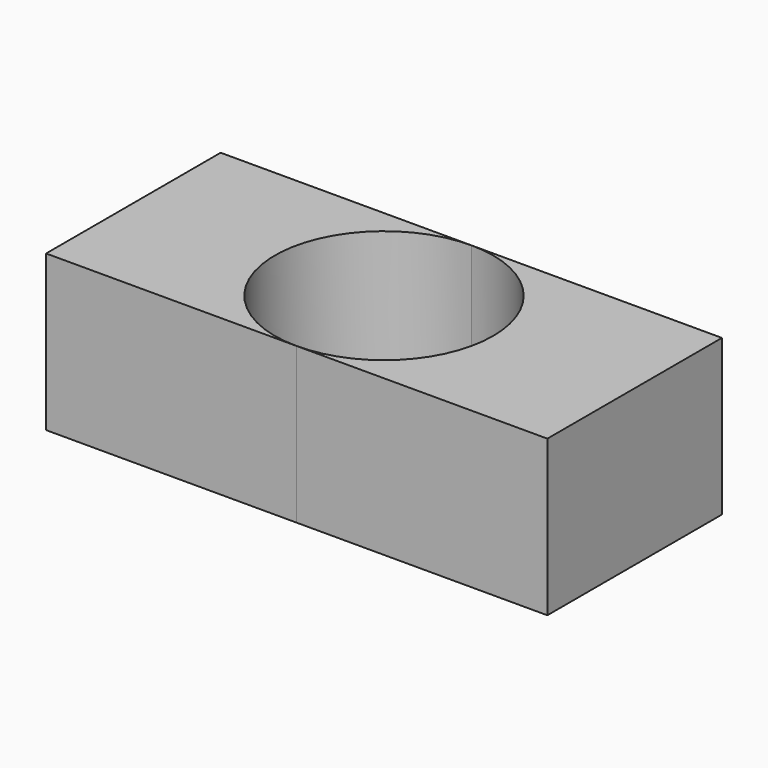
from build123d import *

# Parameters (mm, degrees)
F1_DEPTH = 25.4


with BuildPart() as f1:
    # F0 (on Top) → F1 (new body)
    with BuildSketch(Plane.XY):
        with BuildLine():
            Line((0, -17.819185), (40.937737, -17.819185))
            Line((40.937737, -17.819185), (40.937737, 17.819185))
            Line((40.937737, 17.819185), (0, 17.819185))
            ThreePointArc((0, 17.819185), (12.600066, 12.600066), (17.819185, 0))
            ThreePointArc((17.819185, 0), (12.600066, -12.600066), (0, -17.819185))
        make_face()
        with BuildLine():
            Line((-40.937737, -17.819185), (0, -17.819185))
            ThreePointArc((0, -17.819185), (-17.819185, 0), (0, 17.819185))
            Line((0, 17.819185), (-40.937737, 17.819185))
            Line((-40.937737, 17.819185), (-40.937737, -17.819185))
        make_face()
    extrude(amount=F1_DEPTH)


solid = f1.part
